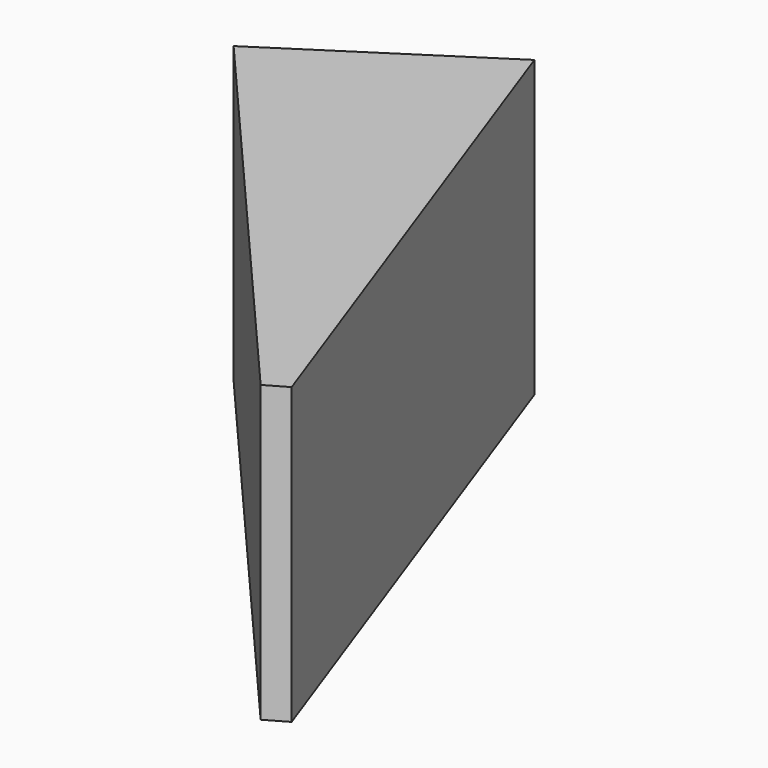
from build123d import *

# Parameters (mm, degrees)
F1_DEPTH      = 41.148
F1_DEPTH_BACK = 1.778


with BuildPart() as f1:
    # F0 (on Top) → F1 (new body, two sides)
    with BuildSketch(Plane.XY) as f1_sk:
        Polygon((-7.171596, 39.616719), (-36.009129, 20.90819), (18.519768, -42.331081), (21.608511, -40.547799), align=None)
    extrude(amount=F1_DEPTH)
    extrude(f1_sk.sketch, amount=-F1_DEPTH_BACK)


solid = f1.part
